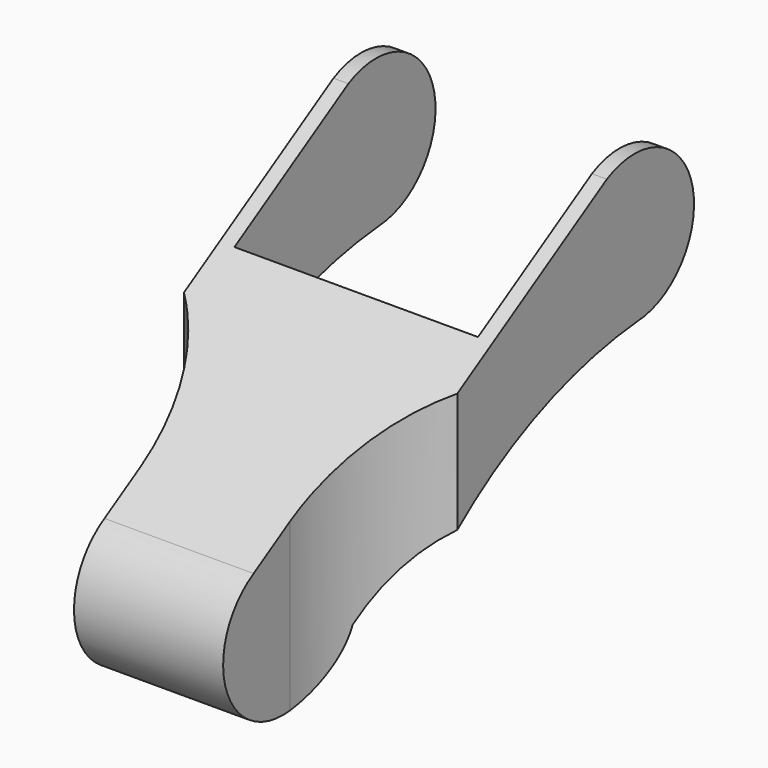
from build123d import *

# Parameters (mm, degrees)
PAD_DEPTH       = 55
SKETCH001_W     = 49
SKETCH001_H     = 60.9
POCKET_DEPTH    = 500
POCKET001_DEPTH = 500


with BuildPart() as part:
    # Sketch → Pad (new body)
    with BuildSketch(Plane.YZ):
        with BuildLine():
            ThreePointArc((28.980657, 15.850683), (42.584206, 34.802551), (21.20392, 44.135996))
            Line((-52.001908, 0), (21.20392, 44.135996))
            ThreePointArc((-52.001908, 0), (-53.920439, -24.881725), (-30.209248, -17.099671))
            ThreePointArc((28.980657, 15.850683), (-4.124344, 5.680733), (-30.209248, -17.099671))
        make_face()
    extrude(amount=PAD_DEPTH)

    # Sketch001 → Pocket (cut)
    with BuildSketch(Plane(origin=(27.5, 23, -50), x_dir=(1, 0, 0), z_dir=(0, 0, 1))):
        Rectangle(SKETCH001_W, SKETCH001_H)
    extrude(amount=POCKET_DEPTH, mode=Mode.SUBTRACT)

    # Sketch002 → Pocket001 (cut)
    with BuildSketch(Plane(origin=(27.5, -35, -50), x_dir=(1, 0, 0), z_dir=(0, 0, 1))):
        with BuildLine():
            Line((-49.999941, -8.209968), (-49.999941, -38.209968))
            Line((-49.999941, -38.209968), (-15, -38.209968))
            Line((-15, -38.209968), (-15, -7.838993))
            ThreePointArc((-15, -7.838993), (-25.381364, 16.670931), (-49.999941, 26.791938))
            Line((-49.999941, 26.791938), (-49.999941, -8.209968))
        make_face()
        with BuildLine():
            Line((15, -7.838993), (15, -38.220366))
            Line((15, -38.220366), (49.997922, -38.220366))
            Line((49.997922, -38.220366), (49.997922, -8.220366))
            Line((49.99995, 26.779634), (49.997922, -8.220366))
            ThreePointArc((49.99995, 26.779634), (25.385111, 16.663555), (15, -7.838993))
        make_face()
    extrude(amount=POCKET001_DEPTH, mode=Mode.SUBTRACT)


solid = part.part
